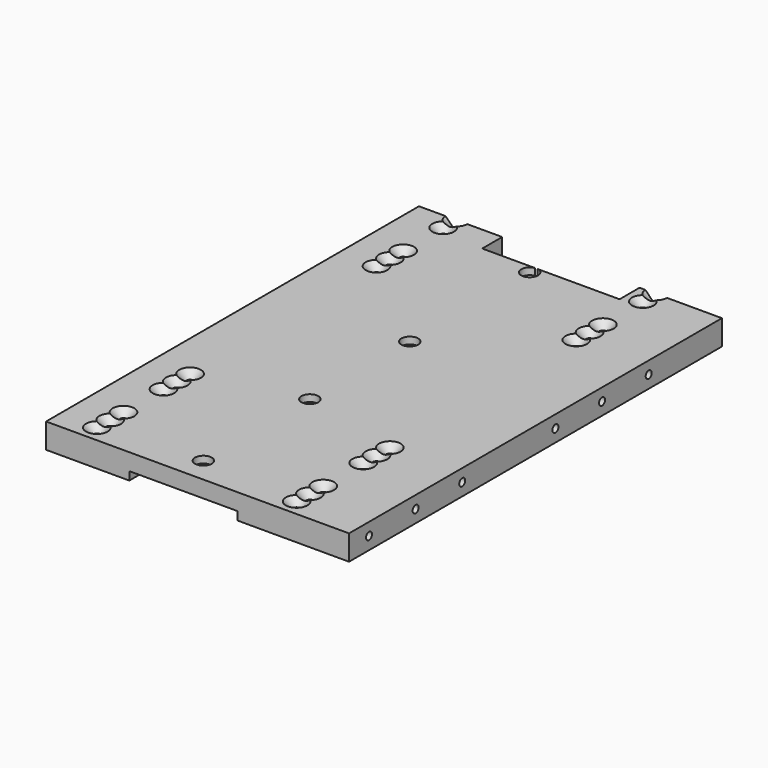
from build123d import *

# Parameters (mm, degrees)
PAD_DEPTH           = 10
SKETCH001_R         = 7
POCKET_DEPTH        = 3
HOLE_D              = 5.8
HOLE_DEPTH          = 25
HOLE_CBORE_D        = 10.1
HOLE_CBORE_DEPTH    = 4.1
SKETCH033_W         = 67
SKETCH033_H         = 280
SKETCH033_W_2       = 50
PAD009_DEPTH        = 5
SKETCH034_R         = 2.25
HOLE009_DEPTH       = 182.501
HOLE015_D           = 4.5
HOLE015_DEPTH       = 25
HOLE015_CSINK_D     = 13
HOLE015_CSINK_ANGLE = 90


with BuildPart() as part:
    # Sketch → Pad (new body)
    with BuildSketch(Plane.XY):
        Polygon((-82.5, 265), (-82.5, -15), (99.5, -15), (99.5, 265), (50, 265), (50, 250), (-32.5, 250), (-32.5, 265), align=None)
    extrude(amount=PAD_DEPTH)

    # Sketch001 → Pocket (cut)
    with BuildSketch(Plane.XY):
        Circle(SKETCH001_R)
        with Locations((0, 80)):
            Circle(SKETCH001_R)
        with Locations((0, 155)):
            Circle(SKETCH001_R)
        with Locations((0, 245)):
            Circle(SKETCH001_R)
    extrude(amount=POCKET_DEPTH, mode=Mode.SUBTRACT)

    # Hole
    with Locations(Plane.XY.offset(10)):
        with Locations((0, 0), (0, 80), (0, 155), (0, 245)):
            CounterBoreHole(HOLE_D / 2, HOLE_CBORE_D / 2, HOLE_CBORE_DEPTH, depth=HOLE_DEPTH)

    # Sketch033 → Pad009 (join)
    with BuildSketch(Plane.XY):
        with Locations((66, 125)):
            Rectangle(SKETCH033_W, SKETCH033_H)
        with Locations((-57.5, 125)):
            Rectangle(SKETCH033_W_2, SKETCH033_H)
    extrude(amount=-PAD009_DEPTH)

    # Sketch034 → Hole009 (cut, through all)
    with BuildSketch(Plane.YZ.offset(100)):
        with Locations((0, 2.5)):
            Circle(SKETCH034_R)
        with Locations((35, 2.5)):
            Circle(SKETCH034_R)
        with Locations((70, 2.5)):
            Circle(SKETCH034_R)
        with Locations((140, 2.5)):
            Circle(SKETCH034_R)
        with Locations((175, 2.5)):
            Circle(SKETCH034_R)
        with Locations((210, 2.5)):
            Circle(SKETCH034_R)
    extrude(amount=-HOLE009_DEPTH, mode=Mode.SUBTRACT)

    # Hole015
    with Locations(Plane.XY.offset(10)):
        with Locations((-60, 255), (-60, 205), (60, 255), (60, 205), (60, 45), (60, -5), (-60, -5), (-60, 45), (60, 55), (60, 5), (-60, 5), (-60, 55), (60, 65), (60, 15), (-60, 15), (-60, 65), (-60, 265), (-60, 215), (60, 265), (60, 215), (-60, 275), (-60, 225), (60, 275), (60, 225)):
            CounterSinkHole(HOLE015_D / 2, HOLE015_CSINK_D / 2, depth=HOLE015_DEPTH, counter_sink_angle=HOLE015_CSINK_ANGLE)


solid = part.part
